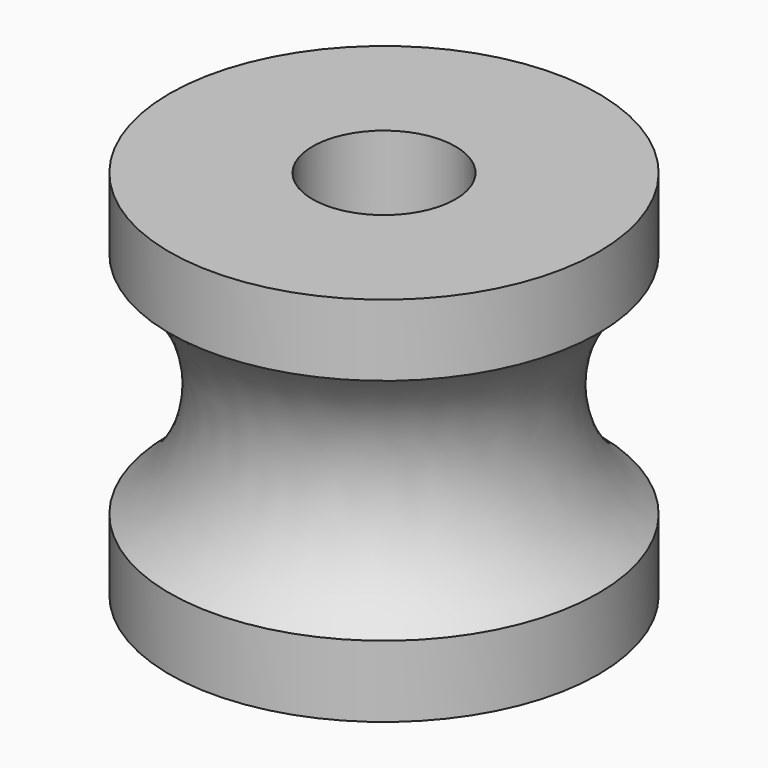
from build123d import *

# Parameters (mm, degrees)
F0_R     = 7.5
F0_R_2   = 2.5
F1_DEPTH = 13


with BuildPart() as f1:
    # F0 (on Top) → F1 (new body)
    with BuildSketch(Plane.XY):
        Circle(F0_R)
        Circle(F0_R_2, mode=Mode.SUBTRACT)
    extrude(amount=F1_DEPTH)

    # F9: sweep along a path in F3
    with BuildLine(Plane.XY.offset(6.5)) as f9_path:
        CenterArc((0, 0), 5.5, 0, 360)
    # F8 (on Front) → F9 (sweep, cut)
    with BuildSketch(Plane.XZ):
        with BuildLine():
            Line((7.5, 2.5), (7.5, 10.5))
            ThreePointArc((7.5, 10.5), (5.5, 6.5), (7.5, 2.5))
        make_face()
    sweep(path=f9_path.line, mode=Mode.SUBTRACT)


solid = f1.part
